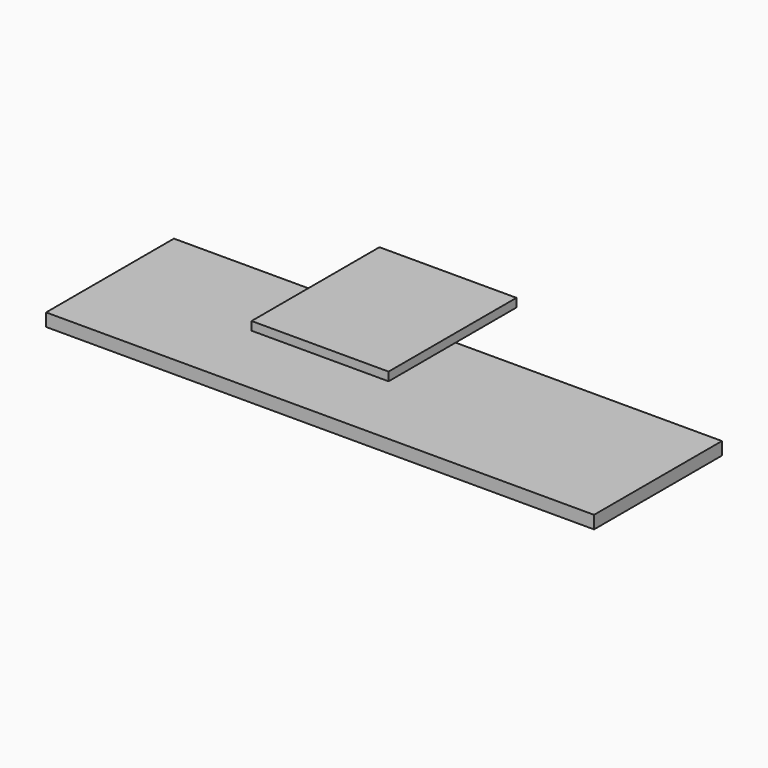
from build123d import *

# Parameters (mm, degrees)
F0_W     = 711.2
F0_H     = 57.15
F1_DEPTH = 1219.2
F2_W     = 711.2
F2_H     = 38.1
F3_DEPTH = 304.8


with BuildPart() as f1:
    # F0 (on Right) → F1 (new body, symmetric)
    with BuildSketch(Plane.YZ):
        Rectangle(F0_W, F0_H)
    extrude(amount=F1_DEPTH, both=True)


with BuildPart() as f3:
    # F2 (on Right) → F3 (new body, symmetric)
    with BuildSketch(Plane.YZ):
        with Locations((0, 273.197624)):
            Rectangle(F2_W, F2_H)
    extrude(amount=F3_DEPTH, both=True)


solid = Compound([f1.part, f3.part])
